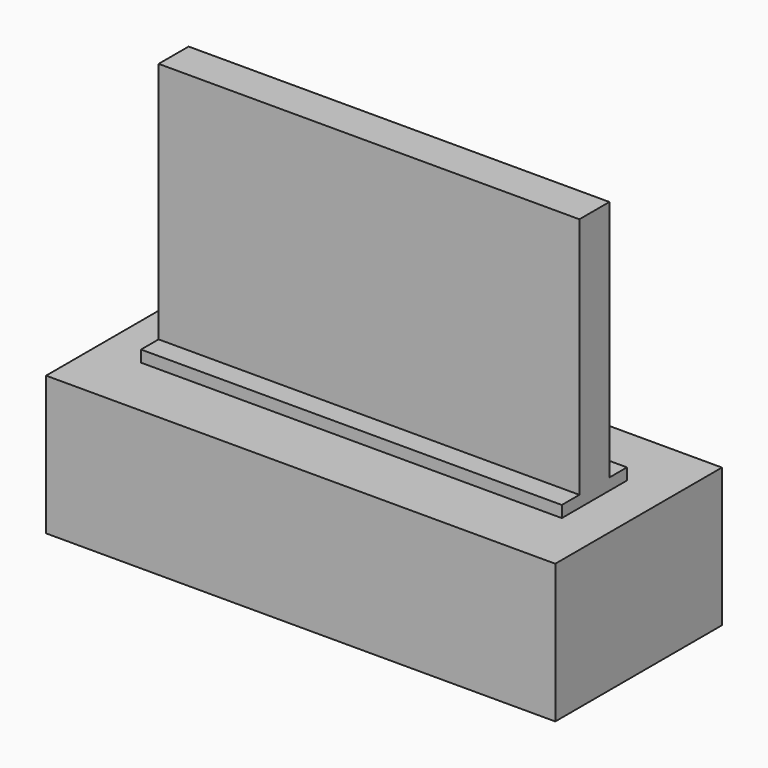
from build123d import *

# Parameters (mm, degrees)
F0_W     = 909
F0_H     = 81
F1_DEPTH = 549
F2_W     = 909
F2_H     = 176
F3_DEPTH = 25
F4_W     = 1100
F4_H     = 450
F5_DEPTH = 300


with BuildPart() as f1:
    # F0 (on Top) → F1 (new body)
    with BuildSketch(Plane.XY):
        Rectangle(F0_W, F0_H)
    extrude(amount=F1_DEPTH)

    # F2 (on face) → F3 (join)
    with BuildSketch(Plane(origin=(0, 0, 0), x_dir=(1, 0, 0), z_dir=(0, 0, -1))):
        Rectangle(F2_W, F2_H)
    extrude(amount=-F3_DEPTH)

    # F4 (on face) → F5 (join)
    with BuildSketch(Plane(origin=(0, 0, 0), x_dir=(1, 0, 0), z_dir=(0, 0, -1))):
        Rectangle(F4_W, F4_H)
    extrude(amount=F5_DEPTH)


solid = f1.part
